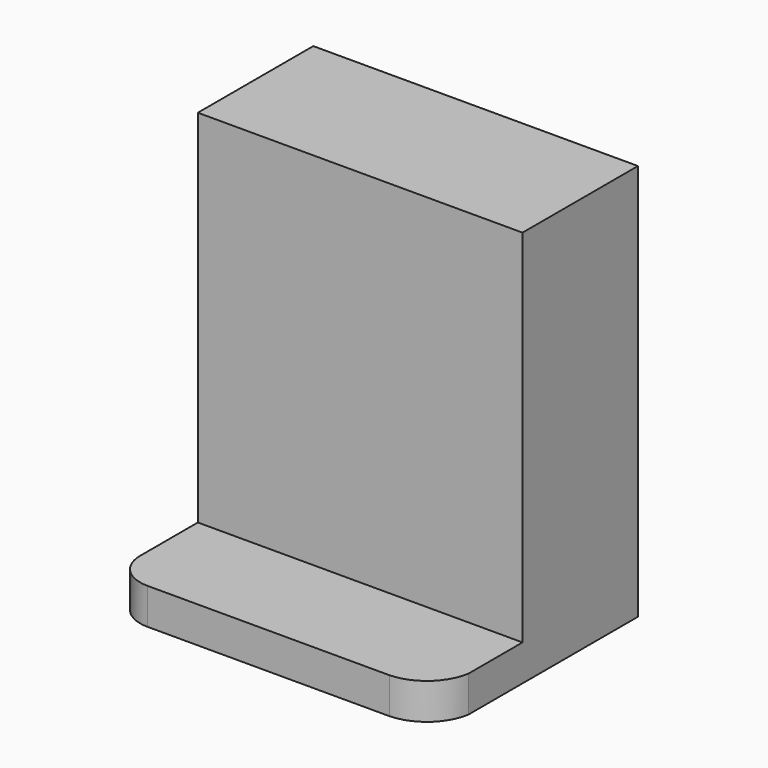
from build123d import *

# Parameters (mm, degrees)
F0_W     = 69.85
F0_H     = 69.85
F1_DEPTH = 44.45
F2_W     = 69.85
F2_H     = 63.5
F3_DEPTH = 19.05
F5_DEPTH = 69.85
F7_DEPTH = 25.4


with BuildPart() as f1:
    # F0 (on Front) → F1 (new body)
    with BuildSketch(Plane.XZ):
        with Locations((34.925, 34.925)):
            Rectangle(F0_W, F0_H)
    extrude(amount=-F1_DEPTH)

    # F2 (on face) → F3 (cut)
    with BuildSketch(Plane.XZ):
        with Locations((34.925, 38.1)):
            Rectangle(F2_W, F2_H)
    extrude(amount=-F3_DEPTH, mode=Mode.SUBTRACT)

    # F4 (on Top) → F5 (cut)
    with BuildSketch(Plane.XY):
        with BuildLine():
            ThreePointArc((57.15, 7.143745), (54.338231, 2.119989), (48.985679, 0))
            Line((48.985679, 0), (69.85, 0))
            Line((69.85, 0), (69.85, 44.45))
            Line((69.85, 44.45), (57.15, 44.45))
            Line((57.15, 44.45), (57.15, 7.143745))
        make_face()
    extrude(amount=F5_DEPTH, mode=Mode.SUBTRACT)

    # F6 (on Top) → F7 (cut)
    with BuildSketch(Plane.XY):
        with BuildLine():
            ThreePointArc((6.35, 0), (1.859872, 1.859872), (0, 6.35))
            Line((0, 6.35), (0, 0))
            Line((0, 0), (6.35, 0))
        make_face()
    extrude(amount=F7_DEPTH, mode=Mode.SUBTRACT)


solid = f1.part
